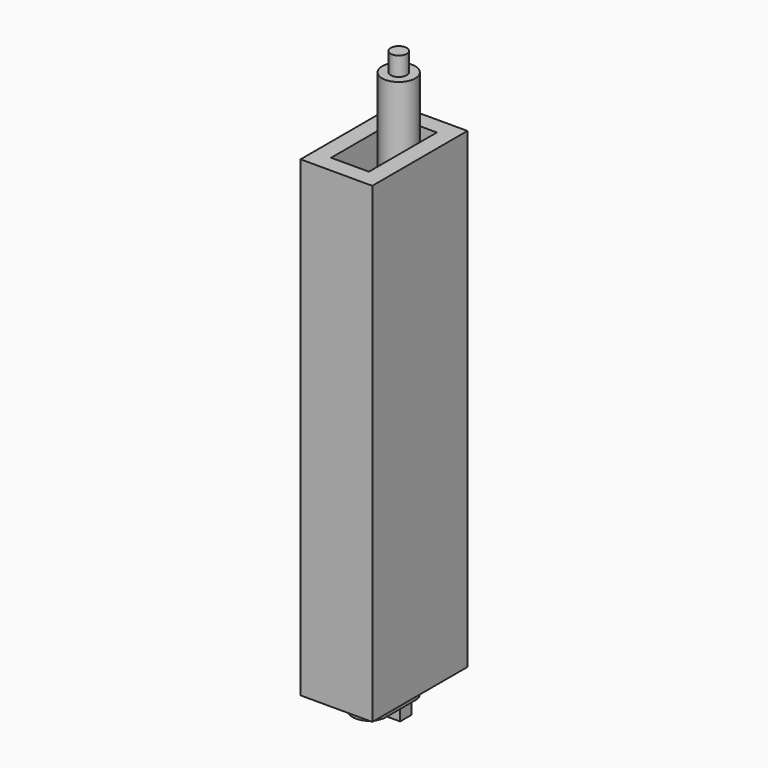
from build123d import *

# Parameters (mm, degrees)
F1_W     = 15
F1_H     = 15
F2_DEPTH = 20
F3_DEPTH = 100
F4_DEPTH = 560
F5_DEPTH = 40
F6_R     = 8.5
F7_DEPTH = 20
F0_W     = 76
F0_H     = 126
F0_W_2   = 40
F0_H_2   = 90
F8_DEPTH = 500


with BuildPart() as f2:
    # F1 (on Top) → F2 (new body)
    with BuildSketch(Plane.XY):
        with BuildLine():
            ThreePointArc((-17.5, -19.5), (0, -2), (17.5, -19.5))
            Line((17.5, -19.5), (17.5, 19.5))
            ThreePointArc((17.5, 19.5), (0, 2), (-17.5, 19.5))
            Line((-17.5, 19.5), (-17.5, -19.5))
        make_face()
        with BuildLine():
            ThreePointArc((-17.5, 19.5), (0, 2), (17.5, 19.5))
            ThreePointArc((17.5, 19.5), (0, 37), (-17.5, 19.5))
        make_face()
        with Locations((0, 19.5)):
            Rectangle(F1_W, F1_H, mode=Mode.SUBTRACT)
        with BuildLine():
            ThreePointArc((-17.5, -19.5), (0, -37), (17.5, -19.5))
            ThreePointArc((17.5, -19.5), (0, -2), (-17.5, -19.5))
        make_face()
        with Locations((0, 19.5)):
            Rectangle(F1_W, F1_H)
    extrude(amount=-F2_DEPTH)

    # F1 (on Top) → F3 (join)
    with BuildSketch(Plane.XY):
        with BuildLine():
            ThreePointArc((-17.5, -19.5), (0, -37), (17.5, -19.5))
            ThreePointArc((17.5, -19.5), (0, -2), (-17.5, -19.5))
        make_face()
    extrude(amount=F3_DEPTH)

    # F1 (on Top) → F4 (join)
    with BuildSketch(Plane.XY):
        with BuildLine():
            ThreePointArc((-17.5, 19.5), (0, 2), (17.5, 19.5))
            ThreePointArc((17.5, 19.5), (0, 37), (-17.5, 19.5))
        make_face()
        with Locations((0, 19.5)):
            Rectangle(F1_W, F1_H, mode=Mode.SUBTRACT)
        with Locations((0, 19.5)):
            Rectangle(F1_W, F1_H)
    extrude(amount=F4_DEPTH)

    # F1 (on Top) → F5 (join)
    with BuildSketch(Plane.XY):
        with Locations((0, 19.5)):
            Rectangle(F1_W, F1_H)
    extrude(amount=-F5_DEPTH)

    # F6 (on face) → F7 (join)
    with BuildSketch(Plane.XY.offset(560)):
        with Locations((0, 19.5)):
            Circle(F6_R)
    extrude(amount=F7_DEPTH)


with BuildPart() as f8:
    # F0 (on Top) → F8 (new body)
    with BuildSketch(Plane.XY):
        Rectangle(F0_W, F0_H)
        Rectangle(F0_W_2, F0_H_2, mode=Mode.SUBTRACT)
    extrude(amount=F8_DEPTH)


solid = Compound([f2.part, f8.part])
